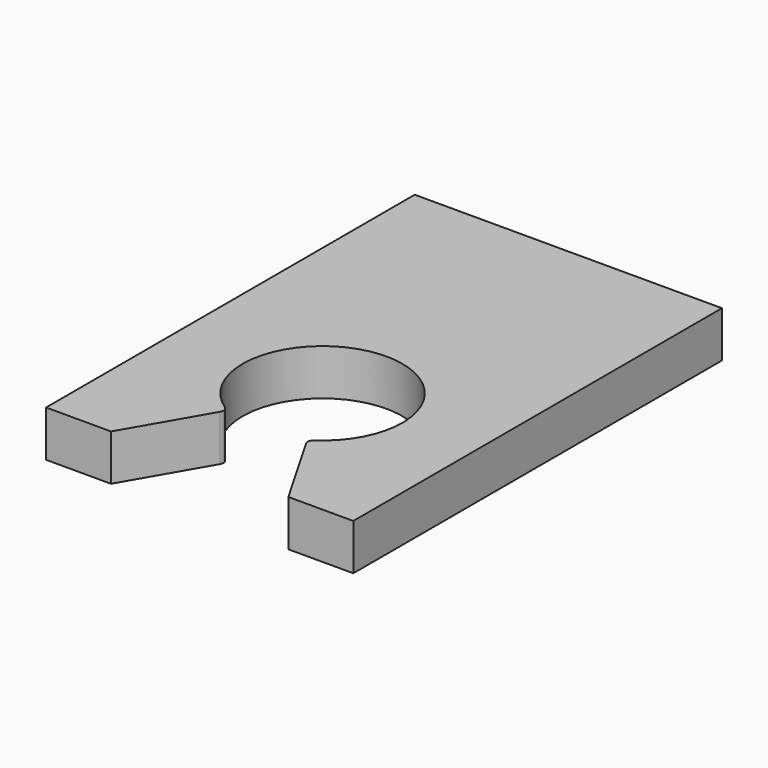
from build123d import *

# Parameters (mm, degrees)
F1_DEPTH = 15


with BuildPart() as f1:
    # F0 (on Top) → F1 (new body)
    with BuildSketch(Plane.XY):
        with BuildLine():
            Line((0, 150), (0, 0))
            Line((0, 0), (21.132487, 0))
            Line((21.132487, 0), (36.03576, 25.813227))
            ThreePointArc((36.03576, 25.813227), (36.252826, 27.261495), (35.424873, 28.469425))
            ThreePointArc((35.424873, 28.469425), (50, 76), (64.575127, 28.469425))
            ThreePointArc((64.575127, 28.469425), (63.747174, 27.261495), (63.96424, 25.813227))
            Line((63.96424, 25.813227), (78.867513, 0))
            Line((78.867513, 0), (100, 0))
            Line((100, 0), (100, 150))
            Line((100, 150), (0, 150))
        make_face()
    extrude(amount=F1_DEPTH)


solid = f1.part
